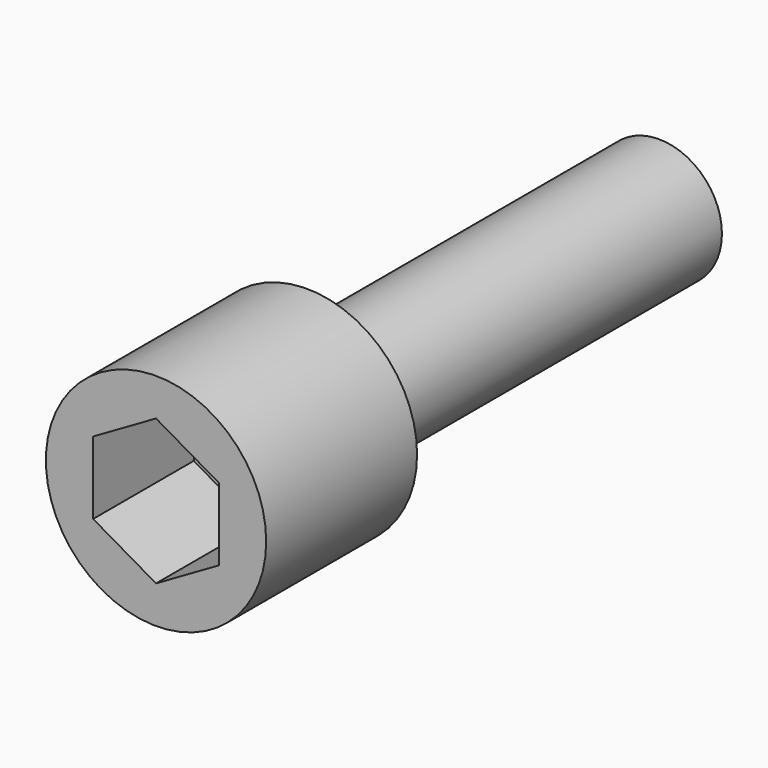
from build123d import *

# Parameters (mm, degrees)
F0_R     = 3.175
F1_DEPTH = 22.225
F3_R     = 5.5626
F4_DEPTH = 9.525
F6_DEPTH = 6.35


with BuildPart() as f1:
    # F0 (on Front) → F1 (new body)
    with BuildSketch(Plane.XZ):
        Circle(F0_R)
    extrude(amount=F1_DEPTH)

    # F3 (on face) → F4 (join)
    with BuildSketch(Plane.XZ.offset(22.225)):
        Circle(F3_R)
    extrude(amount=F4_DEPTH)

    # F5 (on face) → F6 (cut)
    with BuildSketch(Plane.XZ.offset(31.75)):
        Polygon((3.175, 1.833087), (0, 3.666174), (-3.175, 1.833087), (-3.175, -1.833087), (0, -3.666174), (3.175, -1.833087), align=None)
    extrude(amount=-F6_DEPTH, mode=Mode.SUBTRACT)


solid = f1.part
